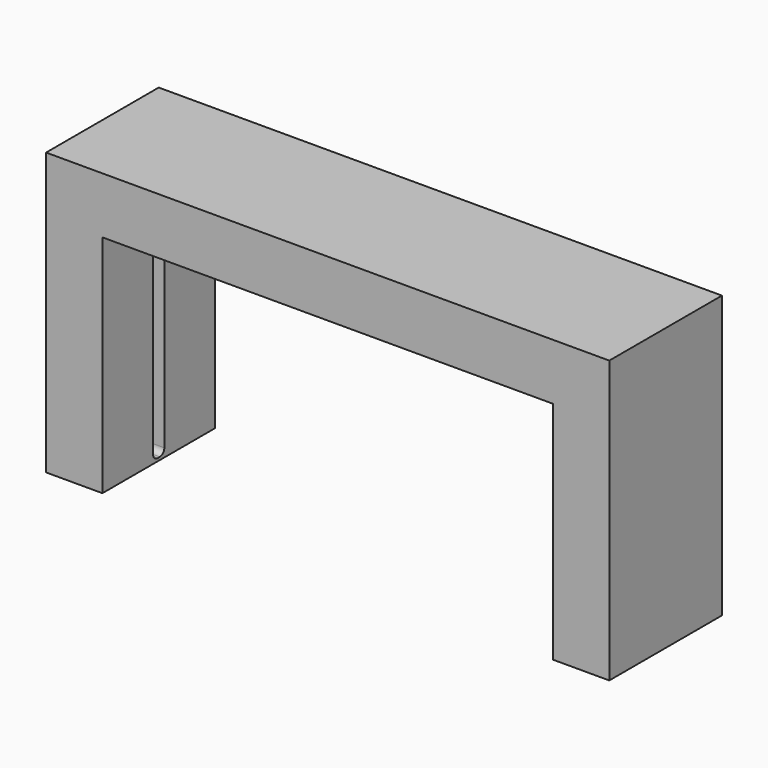
from build123d import *

# Parameters (mm, degrees)
F0_W     = 50.8
F0_H     = 203.2
F1_DEPTH = 63.5
F2_W     = 25.4
F2_H     = 6.35
F5_DEPTH = 6.35
F6_R     = 5.08


with BuildPart() as f1:
    # F0 (on Front) → F1 (new body, symmetric)
    with BuildSketch(Plane.XZ):
        with Locations((-228.6, 0)):
            Rectangle(F0_W, F0_H)
        Polygon((-203.2, 101.6), (203.2, 101.6), (254, 101.6), (254, 152.4), (-254, 152.4), (-254, 101.6), align=None)
        with Locations((228.6, 0)):
            Rectangle(F0_W, F0_H)
    extrude(amount=F1_DEPTH, both=True)

    # F2 (on Front) → F3 (revolve, cut)
    with BuildSketch(Plane.XZ):
        with Locations((215.9, 98.425)):
            Rectangle(F2_W, F2_H)
        with Locations((-215.9, 98.425)):
            Rectangle(F2_W, F2_H)
    revolve(axis=Axis((-215.9, 0, 95.25), (1, 0, 0)), mode=Mode.SUBTRACT)

    # F4 (on Front) → F5 (cut, symmetric)
    with BuildSketch(Plane.XZ):
        Polygon((203.2, 83.82), (203.2, 0), (203.2, -99.06), (228.6, -99.06), (228.6, -92.71), (228.6, 83.82), align=None)
        Polygon((-203.2, -99.06), (-203.2, 0), (-203.2, 83.82), (-228.6, 83.82), (-228.6, -99.06), align=None)
    extrude(amount=F5_DEPTH, both=True, mode=Mode.SUBTRACT)

    # F6
    f6_edges = [f1.edges().sort_by_distance(p)[0] for p in [
        (-215.9, -6.35, 83.82),
        (-215.9, 6.35, 83.82),
        (-215.9, 6.35, -99.06),
        (-215.9, -6.35, -99.06),
        (215.9, -6.35, 83.82),
        (215.9, 6.35, 83.82),
        (215.9, -6.35, -99.06),
        (215.9, 6.35, -99.06),
    ]]
    fillet(f6_edges, radius=F6_R)


solid = f1.part
